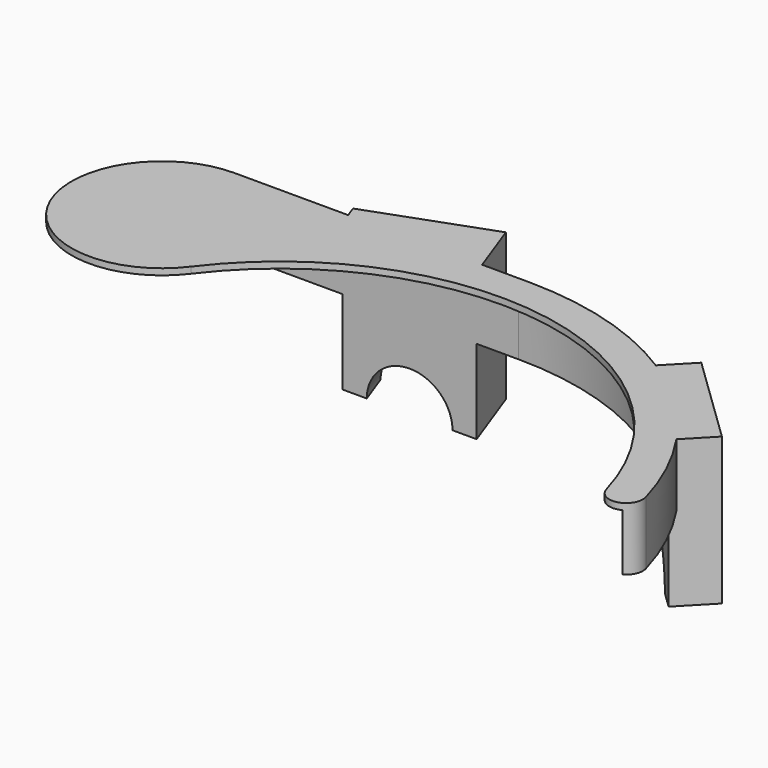
from build123d import *

# Parameters (mm, degrees)
PAD_DEPTH       = 15
SKETCH002_R     = 71
POCKET_DEPTH    = 13.5
POCKET001_DEPTH = 13.5
PAD001_DEPTH    = 35
PAD002_DEPTH    = 35
SKETCH_R        = 9.6
POCKET002_DEPTH = 41.1514534441
SKETCH009_R     = 9.6
POCKET003_DEPTH = 97.4839978397


with BuildPart() as part:
    # Sketch001 → Pad (new body)
    with BuildSketch(Plane.XY):
        with BuildLine():
            ThreePointArc((71.2460525222, 20), (44.7436533058, 58.9406946756), (0.1121090023, 73.9999150781))
            Line((0.1121090023, 73.9999150781), (-70, 74.1061334774))
            ThreePointArc((-69.9999999999, 74.1061334774), (-89.3215614177, 42.9266570301), (-52.7907882568, 39.6122793491))
            ThreePointArc((63.5437766663, 17.8378375087), (12.1424161228, 64.8734285413), (-52.7907882568, 39.6122793491))
            ThreePointArc((63.5437766663, 17.8378375087), (68.4759958054, 15.0677809492), (71.2460525222, 20))
        make_face()
    extrude(amount=PAD_DEPTH)

    # Sketch002 → Pocket (cut)
    with BuildSketch(Plane(origin=(0, 0, 0), x_dir=(1, 0, 0), z_dir=(0, 0, -1))):
        Circle(SKETCH002_R)
    extrude(amount=-POCKET_DEPTH, mode=Mode.SUBTRACT)

    # Sketch003 → Pocket001 (cut)
    with BuildSketch(Plane(origin=(0, 0, 0), x_dir=(1, 0, 0), z_dir=(0, 0, -1))):
        Polygon((-153.2491449427, -71.2322507725), (0.107679068, -70.9999183467), (-35.4631, 35.7409), align=None)
    extrude(amount=-POCKET001_DEPTH, mode=Mode.SUBTRACT)

    # Sketch005 → Pad001 (new body)
    with BuildSketch(Plane.XY.offset(15)):
        Polygon((38.5306472975, 61.493001381), (45.4772310021, 68.6863993843), (67.0574250122, 47.8466482706), (60.1108413076, 40.6532502672), align=None)
    extrude(amount=-PAD001_DEPTH)

    # Sketch006 → Pad002 (new body)
    with BuildSketch(Plane.XY.offset(15)):
        Polygon((-41.8276469497, 71.0634495008), (-43.8797678097, 76.7016052255), (-15.6889891861, 86.9622095253), (-9.8847001983, 71.0150565952), align=None)
    extrude(amount=-PAD002_DEPTH)

    # Sketch → Pocket002 (cut, through all)
    with BuildSketch(Plane(origin=(49.3207443026, 51.0731258241, 0), x_dir=(0.7193398003, -0.6946583705, 0), z_dir=(-0.6946583705, -0.7193398003, 0))):
        with Locations((0, -20)):
            Circle(SKETCH_R)
    extrude(amount=-POCKET002_DEPTH, mode=Mode.SUBTRACT)

    # Sketch009 → Pocket003 (cut, through all)
    with BuildSketch(Plane(origin=(-29.7843784979, 81.8319073754, 0), x_dir=(-0.9396926208, -0.3420201433, 0), z_dir=(-0.3420201433, 0.9396926208, 0))):
        with Locations((0, -20)):
            Circle(SKETCH009_R)
    extrude(amount=-POCKET003_DEPTH, mode=Mode.SUBTRACT)


solid = part.part
